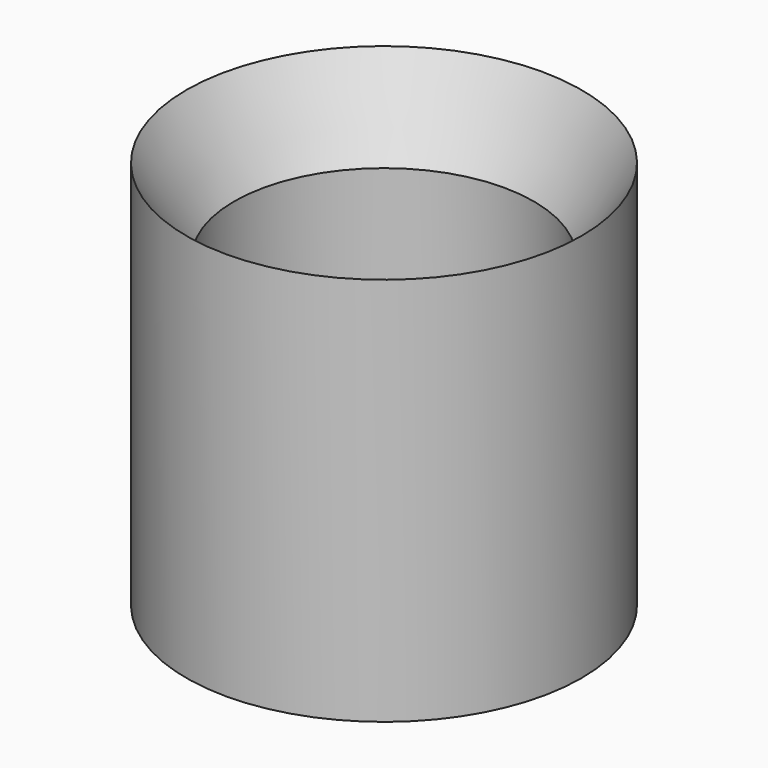
from build123d import *

# Parameters (mm, degrees)
F2_R     = 4.4
F3_DEPTH = 8.2


with BuildPart() as f1:
    # F0 (on Front) → F1 (revolve)
    with BuildSketch(Plane.XZ):
        Polygon((0, 9), (0, 0), (5.8, 0), (5.8, 11.4248711306), (4.4, 9), align=None)
    revolve(axis=Axis((0, 0, 0.5432993317), (0, 0, -1)))

    # F2 (on face) → F3 (cut, through all)
    with BuildSketch(Plane.XY.offset(9)):
        Circle(F2_R)
    extrude(amount=-F3_DEPTH, mode=Mode.SUBTRACT)


solid = f1.part
